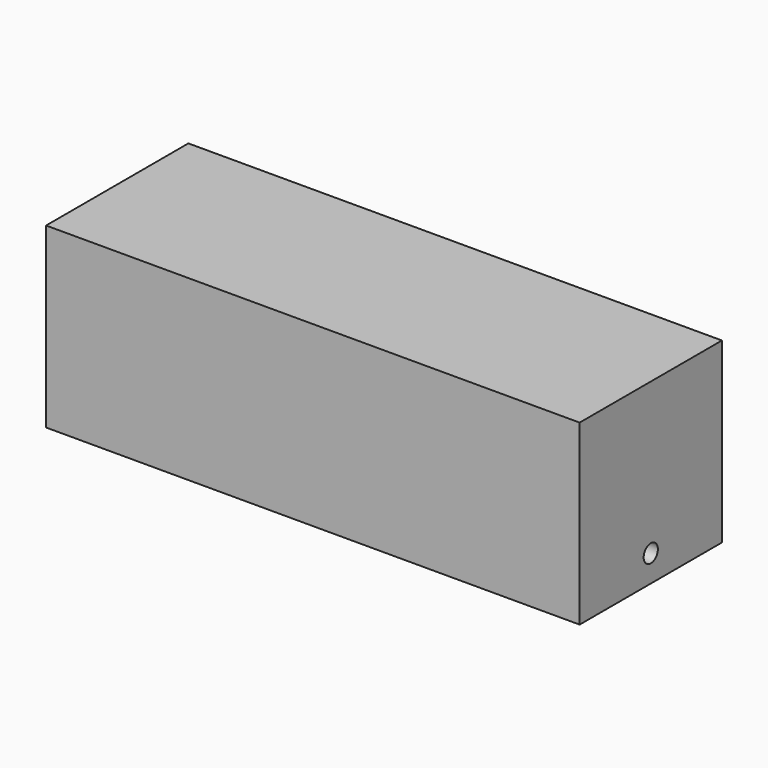
from build123d import *

# Parameters (mm, degrees)
F0_W     = 300
F0_H     = 100
F1_DEPTH = 100
F2_R     = 5
F3_DEPTH = 300


with BuildPart() as f1:
    # F0 (on Front) → F1 (new body)
    with BuildSketch(Plane.XZ):
        Rectangle(F0_W, F0_H)
    extrude(amount=F1_DEPTH)

    # F2 (on face) → F3 (cut)
    with BuildSketch(Plane.YZ.offset(150)):
        with Locations((-50, -35)):
            Circle(F2_R)
    extrude(amount=-F3_DEPTH, mode=Mode.SUBTRACT)


solid = f1.part
